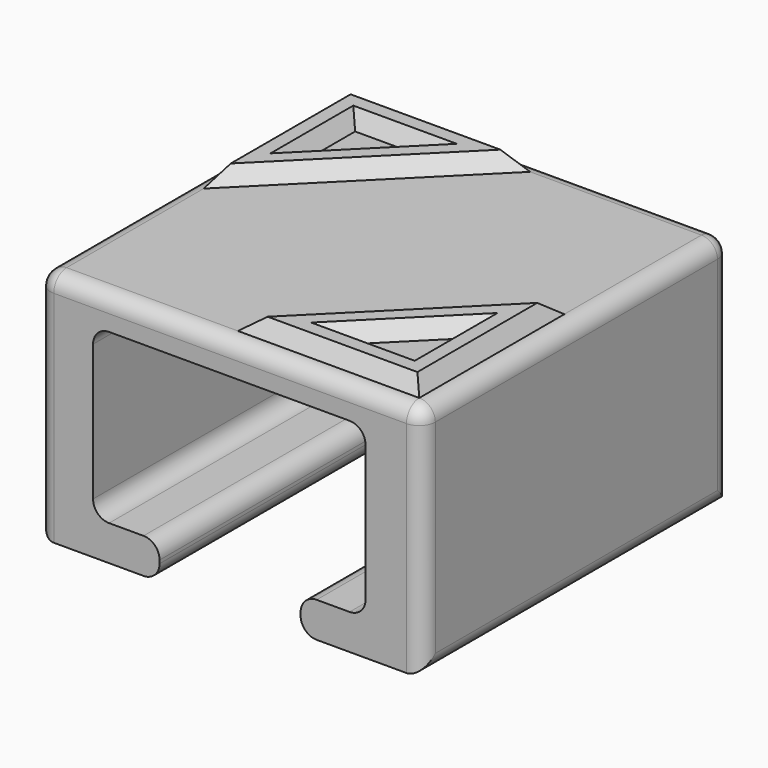
from build123d import *

# Parameters (mm, degrees)
F1_DEPTH = 6
F2_R     = 0.5
F3_R     = 0.5
F5_DEPTH = 0.5
F5_TAPER = 30
F6_R     = 0.5


with BuildPart() as f1:
    # F0 (on Front) → F1 (new body, symmetric)
    with BuildSketch(Plane.XZ):
        Polygon((6, -4.5523648744), (6, 2.7976351256), (-6, 2.7976351256), (-6, -4.5523648744), (-2.2, -4.5523648744), (-2.2, -3.4523648744), (-4.275, -3.4523648744), (-4.275, 1.7976351256), (4.225, 1.7976351256), (4.225, -3.4523648744), (2.2, -3.4523648744), (2.2, -4.5523648744), align=None)
    extrude(amount=F1_DEPTH, both=True)

    # F2
    f2_edges = [f1.edges().sort_by_distance(p)[0] for p in [
        (-2.2, 0, -4.552365),
        (2.2, 0, -4.552365),
        (-2.2, 0, -3.452365),
        (2.2, 0, -3.452365),
    ]]
    fillet(f2_edges, radius=F2_R)

    # F3
    f3_edges = [f1.edges().sort_by_distance(p)[0] for p in [
        (6, 0, -4.552365),
        (6, 6, -0.877365),
        (6, 0, 2.797635),
        (6, -6, -0.877365),
        (0, 6, 2.797635),
        (-6, 0, 2.797635),
        (0, -6, 2.797635),
        (-6, 6, -0.877365),
        (-6, 0, -4.552365),
        (-6, -6, -0.877365),
    ]]
    fillet(f3_edges, radius=F3_R)

    # F4 (on face) → F5 (join)
    with BuildSketch(Plane.XY.offset(2.7976351256)):
        Polygon((-0.8431457505, 4.5), (0.1568542495, 5.5), (-1.2573593129, 5.5), (-2.2573593129, 4.5), align=None)
        Polygon((-4.5, 0.8431457505), (-0.8431457505, 4.5), (-2.2573593129, 4.5), (-4.5, 2.2573593129), align=None)
        Polygon((-5.5, 1.2573593129), (-5.5, -0.1568542495), (-4.5, 0.8431457505), (-4.5, 2.2573593129), align=None)
        Polygon((-0.1568542495, -5.5), (5.5, -5.5), (5.5, 0.1568542495), (4.5, -0.8431457505), (4.5, -2.2573593129), (4.5, -4.5), (2.2573593129, -4.5), (0.8431457505, -4.5), align=None)
        Polygon((-2.2573593129, 4.5), (-1.2573593129, 5.5), (-5.5, 5.5), (-5.5, 1.2573593129), (-4.5, 2.2573593129), (-4.5, 4.5), align=None)
        Polygon((4.5, -2.2573593129), (4.5, -0.8431457505), (0.8431457505, -4.5), (2.2573593129, -4.5), align=None)
    extrude(amount=F5_DEPTH, taper=F5_TAPER)

    # F6
    f6_edges = [f1.edges().sort_by_distance(p)[0] for p in [
        (-4.275, 0, 1.797635),
        (4.225, 0, 1.797635),
        (-4.275, 0, -3.452365),
        (4.225, 0, -3.452365),
    ]]
    fillet(f6_edges, radius=F6_R)


solid = f1.part
